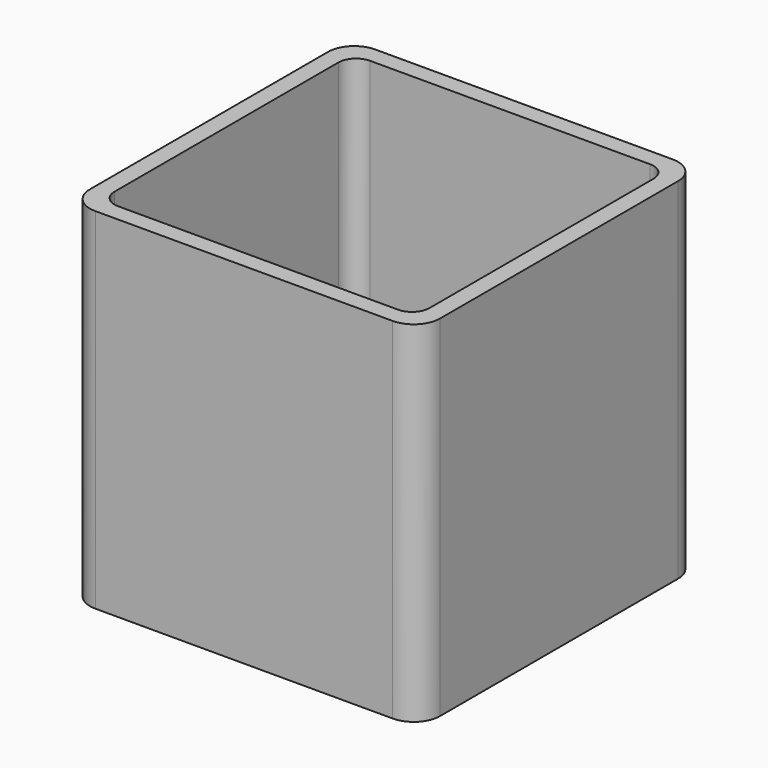
from build123d import *

# Parameters (mm, degrees)
EXTRUDE_DEPTH = 50


with BuildPart() as part:
    # Sketch → Extrude (new body)
    with BuildSketch(Plane.XY):
        with BuildLine():
            Line((-21.25, 25), (21.25, 25))
            ThreePointArc((25, 21.25), (23.90165, 23.90165), (21.25, 25))
            Line((25, 21.25), (25, -21.25))
            ThreePointArc((21.25, -25), (23.90165, -23.90165), (25, -21.25))
            Line((21.25, -25), (-21.25, -25))
            ThreePointArc((-25, -21.25), (-23.90165, -23.90165), (-21.25, -25))
            Line((-25, -21.25), (-25, 21.25))
            ThreePointArc((-21.25, 25), (-23.90165, 23.90165), (-25, 21.25))
        make_face()
        with BuildLine():
            Line((-20, 22.5), (20, 22.5))
            ThreePointArc((22.5, 20), (21.767767, 21.767767), (20, 22.5))
            Line((22.5, 20), (22.5, -20))
            ThreePointArc((20, -22.5), (21.767767, -21.767767), (22.5, -20))
            Line((20, -22.5), (-20, -22.5))
            ThreePointArc((-22.5, -20), (-21.767767, -21.767767), (-20, -22.5))
            Line((-22.5, -20), (-22.5, 20))
            ThreePointArc((-20, 22.5), (-21.767767, 21.767767), (-22.5, 20))
        make_face(mode=Mode.SUBTRACT)
    extrude(amount=EXTRUDE_DEPTH)


solid = part.part
